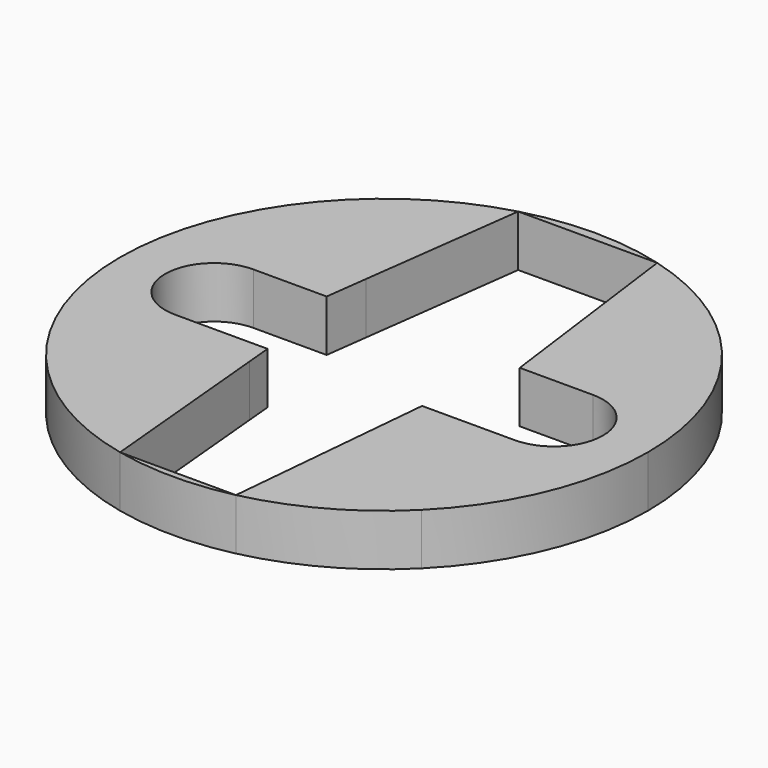
from build123d import *

# Parameters (mm, degrees)
F1_DEPTH = 2


with BuildPart() as f1:
    # F0 (on Top) → F1 (new body)
    with BuildSketch(Plane.XY):
        with BuildLine():
            ThreePointArc((2.25, -10), (4.9442747228, -8.9786773784), (7.2478445072, -7.2478445072))
            Line((7.2478445072, -7.2478445072), (2.9069370394, -2.9069370394))
            Line((2.9069370394, -2.9069370394), (2.25, -10))
        make_face()
        with BuildLine():
            ThreePointArc((10.25, 0), (9.4697652082, 3.9225051817), (7.2478445072, 7.2478445072))
            Line((7.2478445072, 7.2478445072), (3.5352700168, 3.5352700168))
            Line((3.5352700168, 3.5352700168), (3.75, 1.9021201406))
            Line((3.75, 1.9021201406), (6.5978798594, 1.9021201406))
            ThreePointArc((6.5978798594, 1.9021201406), (7.9428819094, 1.3450020501), (8.5, 0))
            ThreePointArc((8.5, 0), (7.9428819094, -1.3450020501), (6.5978798594, -1.9021201406))
            Line((6.5978798594, -1.9021201406), (3, -1.9021201406))
            Line((3, -1.9021201406), (2.9069370394, -2.9069370394))
            Line((2.9069370394, -2.9069370394), (7.2478445072, -7.2478445072))
            ThreePointArc((7.2478445072, -7.2478445072), (9.4697652082, -3.9225051817), (10.25, 0))
        make_face()
        with BuildLine():
            ThreePointArc((7.2478445072, 7.2478445072), (5.146115516, 8.8645358083), (2.7, 9.8879977751))
            Line((2.7, 9.8879977751), (3.5352700168, 3.5352700168))
            Line((3.5352700168, 3.5352700168), (7.2478445072, 7.2478445072))
        make_face()
    extrude(amount=F1_DEPTH)


with BuildPart() as f1b:
    # F0 (on Top) → F1, piece 2 (new body)
    with BuildSketch(Plane.XY):
        with BuildLine():
            Line((-2.7, 9.8879977751), (2.7, 9.8879977751))
            ThreePointArc((2.7, 9.8879977751), (0, 10.25), (-2.7, 9.8879977751))
        make_face()
    extrude(amount=F1_DEPTH)


with BuildPart() as f1c:
    # F0 (on Top) → F1, piece 3 (new body)
    with BuildSketch(Plane.XY):
        with BuildLine():
            Line((-3.5352700168, 3.5352700168), (-2.7, 9.8879977751))
            ThreePointArc((-2.7, 9.8879977751), (-5.146115516, 8.8645358083), (-7.2478445072, 7.2478445072))
            Line((-7.2478445072, 7.2478445072), (-3.5352700168, 3.5352700168))
        make_face()
        with BuildLine():
            Line((-3.5352700168, 3.5352700168), (-7.2478445072, 7.2478445072))
            ThreePointArc((-7.2478445072, 7.2478445072), (-10.25, 0), (-7.2478445072, -7.2478445072))
            Line((-7.2478445072, -7.2478445072), (-2.9069370394, -2.9069370394))
            Line((-2.9069370394, -2.9069370394), (-3, -1.9021201406))
            Line((-3, -1.9021201406), (-6.5978798594, -1.9021201406))
            ThreePointArc((-6.5978798594, -1.9021201406), (-8.5, 0), (-6.5978798594, 1.9021201406))
            Line((-6.5978798594, 1.9021201406), (-3.75, 1.9021201406))
            Line((-3.75, 1.9021201406), (-3.5352700168, 3.5352700168))
        make_face()
        with BuildLine():
            Line((-2.9069370394, -2.9069370394), (-7.2478445072, -7.2478445072))
            ThreePointArc((-7.2478445072, -7.2478445072), (-4.9442747228, -8.9786773784), (-2.25, -10))
            Line((-2.25, -10), (-2.9069370394, -2.9069370394))
        make_face()
    extrude(amount=F1_DEPTH)


with BuildPart() as f1d:
    # F0 (on Top) → F1, piece 4 (new body)
    with BuildSketch(Plane.XY):
        with BuildLine():
            Line((0, -10), (-2.25, -10))
            ThreePointArc((-2.25, -10), (0, -10.25), (2.25, -10))
            Line((2.25, -10), (0, -10))
        make_face()
    extrude(amount=F1_DEPTH)


solid = Compound([f1.part, f1b.part, f1c.part, f1d.part])
